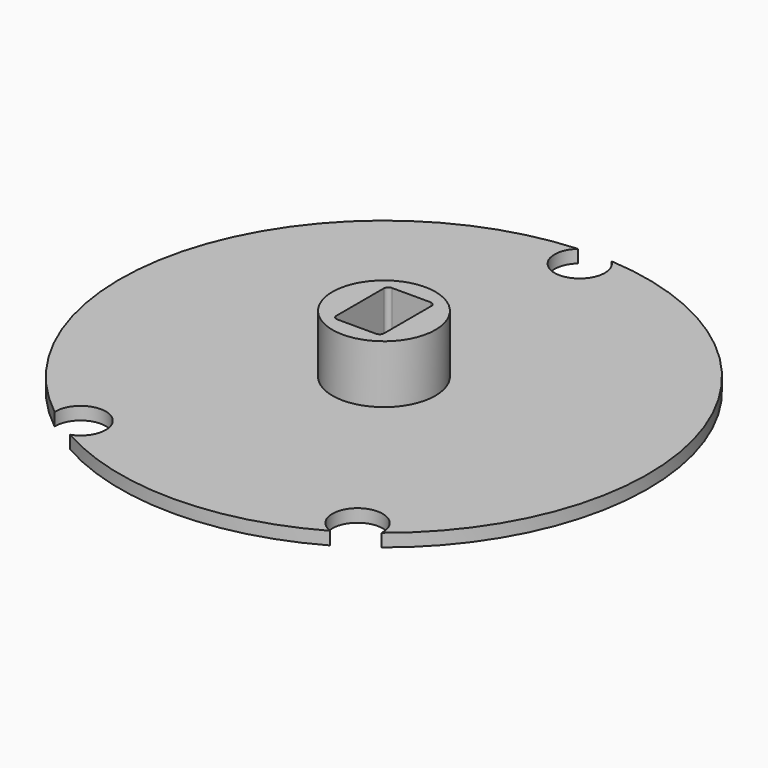
from build123d import *

# Parameters (mm, degrees)
SKETCH_R     = 20.5
PAD_DEPTH    = 1
SKETCH002_R  = 1.95
HOLE_DEPTH   = 1.001
SKETCH003_R  = 4
PAD001_DEPTH = 5.5
POCKET_DEPTH = 5.501


with BuildPart() as part:
    # Sketch → Pad (new body)
    with BuildSketch(Plane.XY):
        with Locations((20.5, 20.5)):
            Circle(SKETCH_R)
    extrude(amount=PAD_DEPTH)

    # Sketch002 → Hole (cut, through all)
    with BuildSketch(Plane.XY):
        with Locations((9.75, 4.5)):
            Circle(SKETCH002_R)
        with Locations((31.25, 4.5)):
            Circle(SKETCH002_R)
        with Locations((20.5, 39.5)):
            Circle(SKETCH002_R)
    extrude(amount=HOLE_DEPTH, mode=Mode.SUBTRACT)

    # Sketch003 → Pad001 (join, symmetric)
    with BuildSketch(Plane.XY):
        with Locations((20.5, 20.5)):
            Circle(SKETCH003_R)
    extrude(amount=PAD001_DEPTH, both=True)

    # Sketch004 → Pocket (cut, through all)
    with BuildSketch(Plane.XY):
        with BuildLine():
            Line((18.65, 22.796447), (18.65, 18.203553))
            ThreePointArc((18.65, 18.203553), (18.753553, 17.953553), (19.003553, 17.85))
            Line((19.003553, 17.85), (21.996447, 17.85))
            ThreePointArc((21.996447, 17.85), (22.246447, 17.953553), (22.35, 18.203553))
            Line((22.35, 18.203553), (22.35, 22.796447))
            ThreePointArc((22.35, 22.796447), (22.246447, 23.046447), (21.996447, 23.15))
            Line((21.996447, 23.15), (19.003553, 23.15))
            ThreePointArc((19.003553, 23.15), (18.753553, 23.046447), (18.65, 22.796447))
        make_face()
    extrude(amount=POCKET_DEPTH, mode=Mode.SUBTRACT)


solid = part.part
